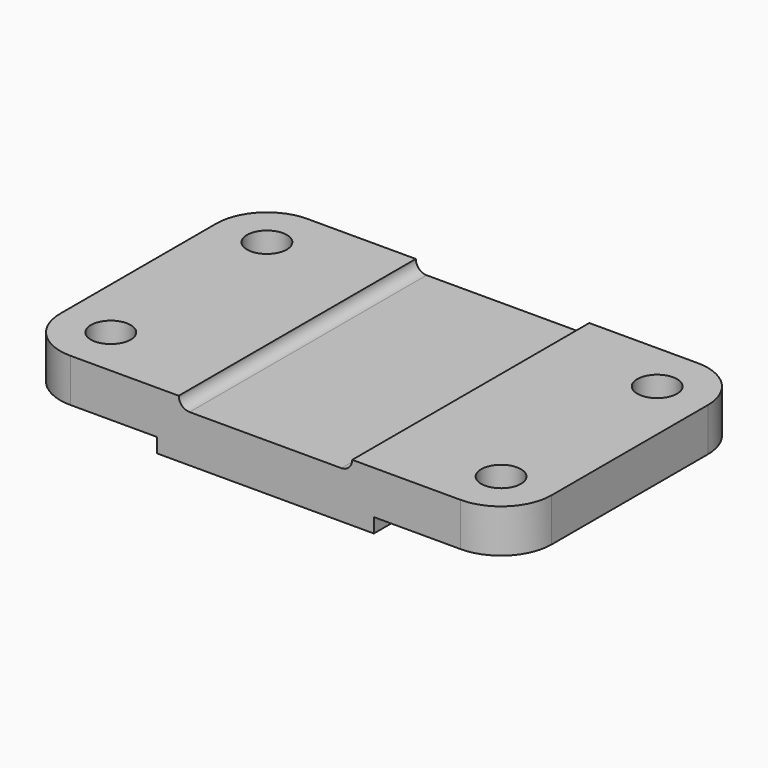
from build123d import *

# Parameters (mm, degrees)
F0_R     = 5.5
F1_DEPTH = 16
F2_W     = 38
F2_H     = 4
F3_DEPTH = 82.001


with BuildPart() as f1:
    # F0 (on Top) → F1 (new body)
    with BuildSketch(Plane.XY):
        with BuildLine():
            ThreePointArc((0, 14), (4.100505, 4.100505), (14, 0))
            Line((14, 0), (122, 0))
            ThreePointArc((122, 0), (131.899495, 4.100505), (136, 14))
            Line((136, 14), (136, 68))
            ThreePointArc((136, 68), (131.899495, 77.899495), (122, 82))
            Line((122, 82), (14, 82))
            ThreePointArc((14, 82), (4.100505, 77.899495), (0, 68))
            Line((0, 68), (0, 14))
        make_face()
        with Locations((14, 14)):
            Circle(F0_R, mode=Mode.SUBTRACT)
        with Locations((122, 14)):
            Circle(F0_R, mode=Mode.SUBTRACT)
        with Locations((14, 68)):
            Circle(F0_R, mode=Mode.SUBTRACT)
        with Locations((122, 68)):
            Circle(F0_R, mode=Mode.SUBTRACT)
    extrude(amount=F1_DEPTH)

    # F2 (on face) → F3 (cut, through all)
    with BuildSketch(Plane.XZ):
        with Locations((19, 2)):
            Rectangle(F2_W, F2_H)
        with Locations((117, 2)):
            Rectangle(F2_W, F2_H)
        with BuildLine():
            Line((92, 16), (44, 16))
            ThreePointArc((44, 16), (44.87868, 13.87868), (47, 13))
            Line((47, 13), (89, 13))
            ThreePointArc((89, 13), (91.12132, 13.87868), (92, 16))
        make_face()
    extrude(amount=-F3_DEPTH, mode=Mode.SUBTRACT)


solid = f1.part
